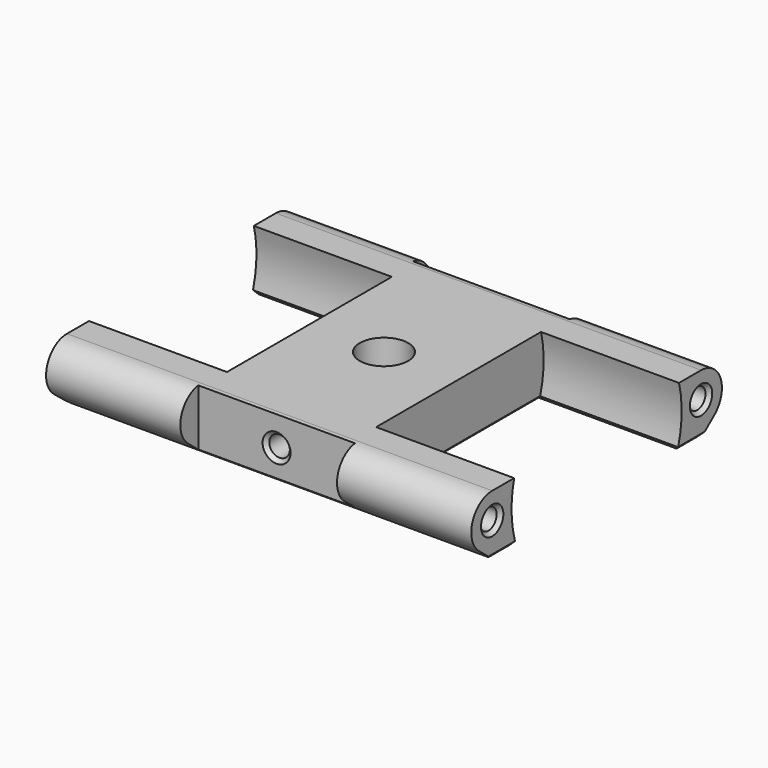
from build123d import *

# Parameters (mm, degrees)
PAD_DEPTH           = 28.5
SKETCH001_R         = 14.25
POCKET_DEPTH        = 18.5
SKETCH002_R         = 1.375
POCKET001_DEPTH     = 12
SKETCH003_W         = 4
SKETCH003_H         = 10.5
POCKET002_DEPTH     = 8
SKETCH004_R         = 1.75
POCKET003_DEPTH     = 8
SKETCH005_R         = 3.25
POCKET004_DEPTH     = 6
SKETCH006_R         = 1.375
POCKET005_DEPTH     = 10
SKETCH007_R         = 1.375
POCKET006_DEPTH     = 10
CHAMFER_SIZE        = 0.5
CHAMFER001_SIZE     = 0.5
CLONE001_ROLL_ANGLE = -90


with BuildPart() as recess_pocket:
    # Sketch → Pad (new body)
    with BuildSketch(Plane.YZ):
        with BuildLine():
            ThreePointArc((2.722222, 19.699888), (-1.166667, 20.799832), (-3.5, 17.5))
            Line((-3.5, 17.5), (-3.5, -17.5))
            ThreePointArc((-3.5, -17.5), (-1.166657, -20.799835), (2.722235, -19.699872))
            Line((2.722235, -19.699872), (4.5, -17.5))
            Line((4.5, 17.5), (4.5, -17.5))
            Line((4.5, 17.5), (2.722222, 19.699888))
        make_face()
    extrude(amount=PAD_DEPTH)

    # Sketch001 → Pocket (cut)
    with BuildSketch(Plane.YZ.offset(28.5)):
        Circle(SKETCH001_R)
    extrude(amount=-POCKET_DEPTH, mode=Mode.SUBTRACT)

    # Sketch002 → Pocket001 (cut)
    with BuildSketch(Plane.YZ.offset(28.5)):
        with Locations((0, -17.5)):
            Circle(SKETCH002_R)
        with Locations((0, 17.5)):
            Circle(SKETCH002_R)
    extrude(amount=-POCKET001_DEPTH, mode=Mode.SUBTRACT)

    # Sketch003 → Pocket002 (cut)
    with BuildSketch(Plane(origin=(0, -3.5, 0), x_dir=(0, 0, -1), z_dir=(0, -1, 0))):
        with Locations((-20, 5.25)):
            Rectangle(SKETCH003_W, SKETCH003_H)
        with Locations((20, 5.25)):
            Rectangle(SKETCH003_W, SKETCH003_H)
    extrude(amount=-POCKET002_DEPTH, mode=Mode.SUBTRACT)


with BuildPart() as motor_bracket_printing:
    # Part__Mirroring: instance of recess-pocket
    add(recess_pocket.part.mirror(Plane(origin=(0, 0, 0), x_dir=(0, -1, 0), z_dir=(1, 0, 0))))

    # Fusion: union recess-pocket
    add(recess_pocket.part)

    # Sketch004 → Pocket003 (cut)
    with BuildSketch(Plane.XZ.offset(3.5)):
        Circle(SKETCH004_R)
    extrude(amount=-POCKET003_DEPTH, mode=Mode.SUBTRACT)

    # Sketch005 → Pocket004 (cut)
    with BuildSketch(Plane.XZ.offset(3.5)):
        Circle(SKETCH005_R)
    extrude(amount=-POCKET004_DEPTH, mode=Mode.SUBTRACT)

    # Sketch006 → Pocket005 (cut)
    with BuildSketch(Plane.XY.offset(18)):
        with Locations((0, 0.5)):
            Circle(SKETCH006_R)
    extrude(amount=-POCKET005_DEPTH, mode=Mode.SUBTRACT)

    # Sketch007 → Pocket006 (cut)
    with BuildSketch(Plane(origin=(0, 0, -18), x_dir=(1, 0, 0), z_dir=(0, 0, -1))):
        with Locations((0, -0.5)):
            Circle(SKETCH007_R)
    extrude(amount=-POCKET006_DEPTH, mode=Mode.SUBTRACT)

    # Chamfer
    chamfer_edges = [motor_bracket_printing.edges().sort_by_distance(p)[0] for p in [
        (28.5, -1.375, -17.5),
        (-28.5, -1.375, -17.5),
        (-28.5, -1.375, 17.5),
        (28.5, -1.375, 17.5),
        (-1.375, 0.5, -18),
        (-1.375, 0.5, 18),
    ]]
    chamfer(chamfer_edges, length=CHAMFER_SIZE)

    # Chamfer001
    chamfer001_edges = [motor_bracket_printing.edges().sort_by_distance(p)[0] for p in [
        (28.5, 4.5, -15.510409),
        (19.25, 4.5, -13.520817),
        (-10, 4.5, 0),
        (-19.25, 4.5, -13.520817),
        (-19.25, 4.5, 13.520817),
        (-28.5, 4.5, -15.510409),
        (-28.5, 4.5, 15.510409),
        (28.5, 4.5, 15.510409),
        (19.25, 4.5, 13.520817),
        (10, 4.5, 0),
        (-1.75, 4.5, 0),
    ]]
    chamfer(chamfer001_edges, length=CHAMFER001_SIZE)


with BuildPart() as motor_bracket_printing_1:
    # Clone001 roll: moved
    add(motor_bracket_printing.part.rotate(Axis((0, 0, 0), (1, 0, 0)), CLONE001_ROLL_ANGLE))


with BuildPart() as motor_bracket_printing_2:
    # Clone001 placement: moved
    add(motor_bracket_printing_1.part)


solid = motor_bracket_printing_2.part
